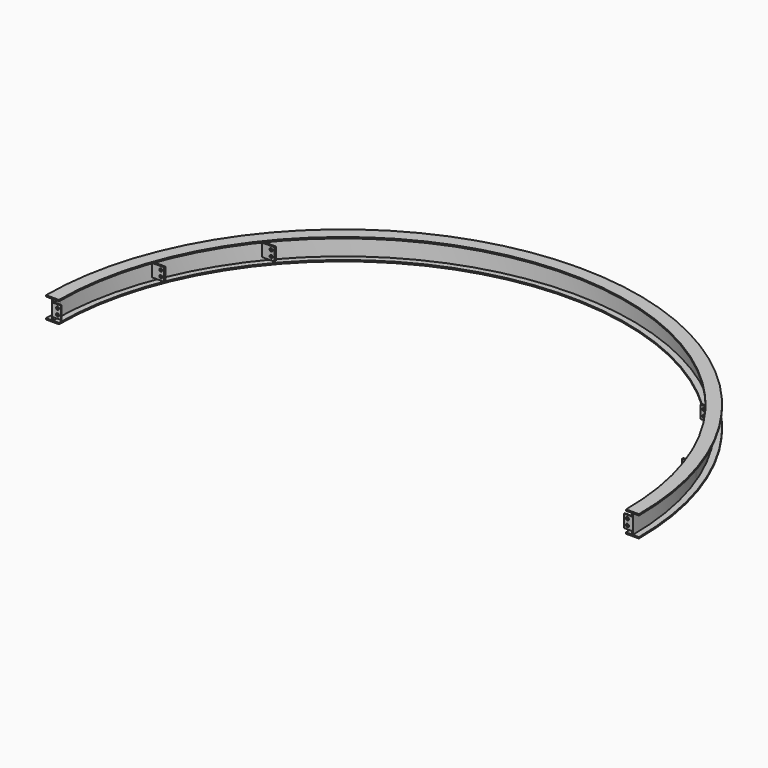
from build123d import *

# Parameters (mm, degrees)
F5_W      = 10
F5_H      = 75
F6_DEPTH  = 75
F9_W      = 10
F9_H      = 75
F10_DEPTH = 75
F11_W     = 10
F11_H     = 75
F12_DEPTH = 75
F13_W     = 10
F13_H     = 75
F14_DEPTH = 75
F15_R     = 9
F16_DEPTH = 10
F17_R     = 9
F18_DEPTH = 25
F19_R     = 9
F20_DEPTH = 25
F21_R     = 9
F22_DEPTH = 25
F24_DEPTH = 37.5
F25_R     = 9
F26_DEPTH = 25


with BuildPart() as f2:
    # F2: sweep along a path in F1
    with BuildLine(Plane.XY) as f2_path:
        ThreePointArc((3424, 0), (1712, 1712), (0, 0))
    # F0 (on Front) → F2 (sweep)
    with BuildSketch(Plane.XZ):
        Polygon((38.306882, 63.5), (-37.693118, 63.5), (-37.693118, 55.9), (-1.693118, 55.9), (-1.693118, -55.9), (-37.693118, -55.9), (-37.693118, -63.5), (38.306882, -63.5), (38.306882, -55.9), (2.306882, -55.9), (2.306882, 55.9), (38.306882, 55.9), align=None)
    sweep(path=f2_path.line)

    # F23 (on Top) → F24 (join, symmetric)
    with BuildSketch(Plane.XY):
        Polygon((3423.693118, 6), (3423.693118, 50), (3417.693118, 50), (3417.693118, 6), (3373.693118, 6), (3373.693118, 0), (3417.693118, 0), (3423.693118, 0), align=None)
        Polygon((6, 50), (0, 50), (0, 0), (6, 0), (50, 0), (50, 6), (6, 6), align=None)
    extrude(amount=F24_DEPTH, both=True)

    # F25 (on Front) → F26 (cut)
    with BuildSketch(Plane.XZ):
        with Locations((30, 17.5)):
            Circle(F25_R)
        with Locations((30, -17.5)):
            Circle(F25_R)
        with Locations((3393.693118, 17.5)):
            Circle(F25_R)
        with Locations((3393.693118, -17.5)):
            Circle(F25_R)
    extrude(amount=-F26_DEPTH, mode=Mode.SUBTRACT)


with BuildPart() as f6:
    # F5 (on face) → F6 (new body)
    with BuildSketch(Plane.YZ.offset(3044.410973)):
        with Locations((1074.601544, 0)):
            Rectangle(F5_W, F5_H)
    extrude(amount=-F6_DEPTH)

    # F21 (on face) → F22 (cut)
    with BuildSketch(Plane.XZ.offset(-1069.601544)):
        with Locations((2989.410973, 17.5)):
            Circle(F21_R)
        with Locations((2989.410973, -17.5)):
            Circle(F21_R)
    extrude(amount=-F22_DEPTH, mode=Mode.SUBTRACT)


with BuildPart() as f10:
    # F9 (on face) → F10 (new body)
    with BuildSketch(Plane.YZ.offset(108.583647)):
        with Locations((600, 0)):
            Rectangle(F9_W, F9_H)
    extrude(amount=F10_DEPTH)

    # F17 (on face) → F18 (cut)
    with BuildSketch(Plane.XZ.offset(-595)):
        with Locations((163.583647, 17.5)):
            Circle(F17_R)
        with Locations((163.583647, -17.5)):
            Circle(F17_R)
    extrude(amount=-F18_DEPTH, mode=Mode.SUBTRACT)


with BuildPart() as f12:
    # F11 (on face) → F12 (new body)
    with BuildSketch(Plane.YZ.offset(3315.416353)):
        with Locations((599.81208, 0)):
            Rectangle(F11_W, F11_H)
    extrude(amount=-F12_DEPTH)

    # F19 (on face) → F20 (cut)
    with BuildSketch(Plane.XZ.offset(-594.81208)):
        with Locations((3260.416353, 17.5)):
            Circle(F19_R)
        with Locations((3260.416353, -17.5)):
            Circle(F19_R)
    extrude(amount=-F20_DEPTH, mode=Mode.SUBTRACT)


with BuildPart() as f14:
    # F13 (on face) → F14 (new body)
    with BuildSketch(Plane.YZ.offset(379.589027)):
        with Locations((1074.968755, 0)):
            Rectangle(F13_W, F13_H)
    extrude(amount=F14_DEPTH)

    # F15 (on face) → F16 (cut)
    with BuildSketch(Plane.XZ.offset(-1069.968755)):
        with Locations((434.589027, 17.5)):
            Circle(F15_R)
        with Locations((434.589027, -17.5)):
            Circle(F15_R)
    extrude(amount=-F16_DEPTH, mode=Mode.SUBTRACT)


solid = Compound([f2.part, f6.part, f10.part, f12.part, f14.part])
